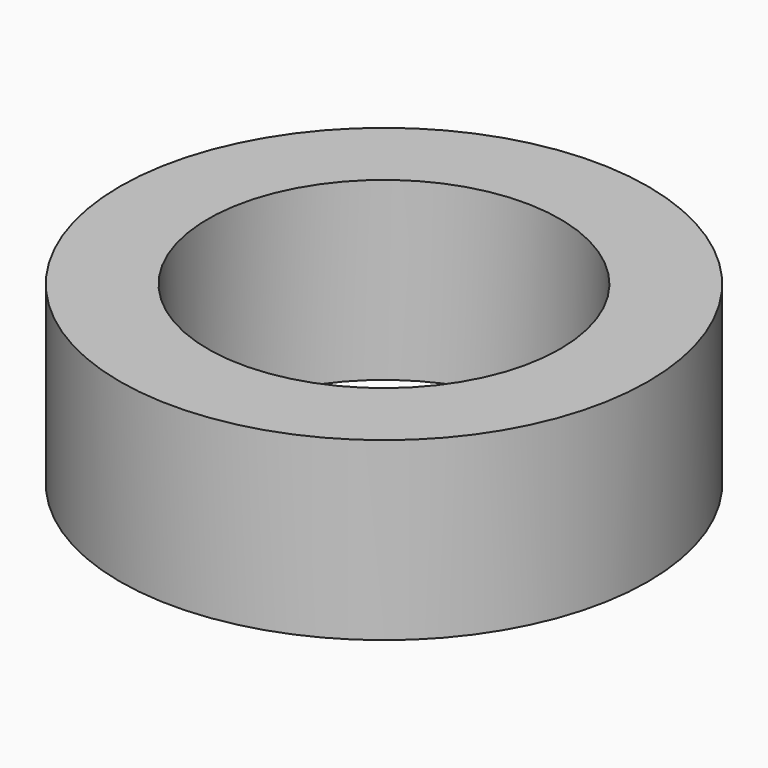
from build123d import *

# Parameters (mm, degrees)
F0_R     = 9.525
F0_R_2   = 6.35
F1_DEPTH = 4.99189
F2_DEPTH = 6.35


with BuildPart() as f1:
    # F0 (on Top) → F1 (new body)
    with BuildSketch(Plane.XY):
        Circle(F0_R)
        Circle(F0_R_2, mode=Mode.SUBTRACT)
    extrude(amount=F1_DEPTH)

    # F0 (on Top) → F2 (join)
    with BuildSketch(Plane.XY):
        Circle(F0_R)
        Circle(F0_R_2, mode=Mode.SUBTRACT)
    extrude(amount=F2_DEPTH)


solid = f1.part
